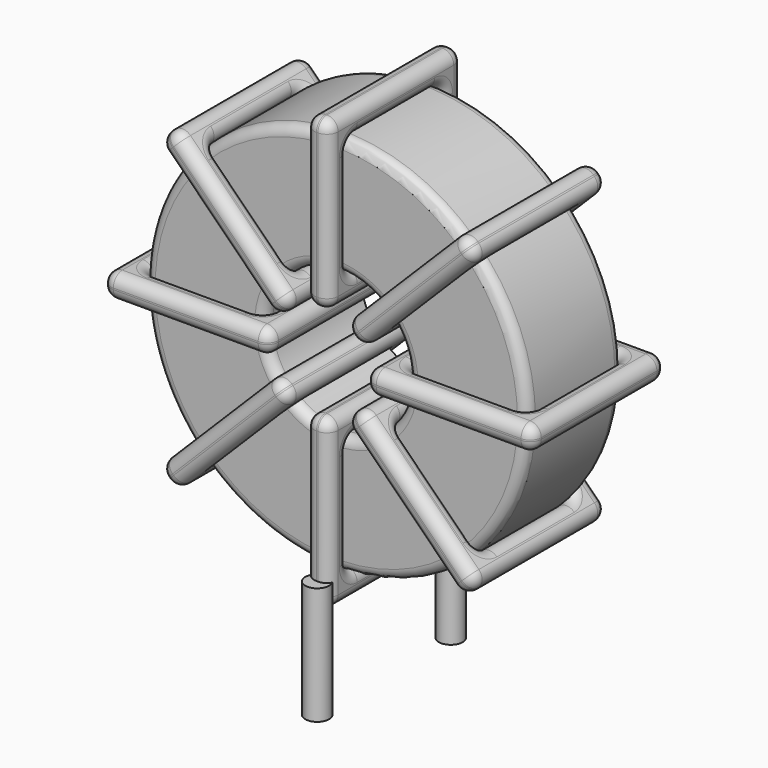
from build123d import *

# Parameters (mm, degrees)
SKETCH001_R       = 0.6
PAD001_DEPTH      = 1.2
PAD001_DEPTH_BACK = 4.7
SKETCH_R          = 9.595
SKETCH_R_2        = 3.598333
PAD_DEPTH         = 2.99
FILLET_R          = 0.5
SKETCH003_W       = 8.396667
SKETCH003_H       = 8.38
SKETCH003_W_2     = 5.996667
SKETCH003_H_2     = 5.98
PAD002_DEPTH      = 0.6
FILLET001_R       = 0.564
SKETCH004_W       = 8.396667
SKETCH004_H       = 8.38
SKETCH004_W_2     = 5.996667
SKETCH004_H_2     = 5.98
PAD003_DEPTH      = 0.6
FILLET002_R       = 0.564
SKETCH005_W       = 8.396667
SKETCH005_H       = 8.38
SKETCH005_W_2     = 5.996667
SKETCH005_H_2     = 5.98
PAD004_DEPTH      = 0.6
FILLET003_R       = 0.564
SKETCH006_W       = 8.396667
SKETCH006_H       = 8.38
SKETCH006_W_2     = 5.996667
SKETCH006_H_2     = 5.98
PAD005_DEPTH      = 0.6
FILLET004_R       = 0.564


with BuildPart() as pad001:
    # Sketch001 → Pad001 (new body, two sides)
    with BuildSketch(Plane.XY.offset(1.7)) as pad001_sk:
        Circle(SKETCH001_R)
        with Locations((0, -8.38)):
            Circle(SKETCH001_R)
    extrude(amount=PAD001_DEPTH)
    extrude(pad001_sk.sketch, amount=-PAD001_DEPTH_BACK)


with BuildPart() as fillet_body:
    # Sketch → Pad (new body, symmetric)
    with BuildSketch(Plane.XZ.offset(4.19)):
        with Locations((0, 12.495)):
            Circle(SKETCH_R)
        with Locations((0, 12.495)):
            Circle(SKETCH_R_2, mode=Mode.SUBTRACT)
    extrude(amount=PAD_DEPTH, both=True)

    # Fillet
    fillet_edges = [fillet_body.edges().sort_by_distance(p)[0] for p in [
        (-3.598333, -7.18, 12.495),
        (-9.595, -7.18, 12.495),
        (-9.595, -1.2, 12.495),
    ]]
    fillet(fillet_edges, radius=FILLET_R)


with BuildPart() as fillet001:
    # Sketch003 → Pad002 (new body, symmetric)
    with BuildSketch(Plane(origin=(0, 0, 12.495), x_dir=(1, 0, 0), z_dir=(0, 0, -1))):
        with Locations((-6.596666, 4.19)):
            Rectangle(SKETCH003_W, SKETCH003_H)
        with Locations((-6.596666, 4.19)):
            Rectangle(SKETCH003_W_2, SKETCH003_H_2, mode=Mode.SUBTRACT)
        with Locations((6.596666, 4.19)):
            Rectangle(SKETCH003_W, SKETCH003_H)
        with Locations((6.596666, 4.19)):
            Rectangle(SKETCH003_W_2, SKETCH003_H_2, mode=Mode.SUBTRACT)
    extrude(amount=PAD002_DEPTH, both=True)

    # Fillet001
    fillet001_edges = [fillet001.edges().sort_by_distance(p)[0] for p in [
        (-3.598333, -7.18, 12.495),
        (-3.598333, -1.2, 12.495),
        (-3.598333, -4.19, 13.095),
        (-3.598333, -4.19, 11.895),
        (-10.795, -8.38, 12.495),
        (-2.398333, -8.38, 12.495),
        (-6.596667, -8.38, 13.095),
        (-6.596667, -8.38, 11.895),
        (-2.398333, 0, 12.495),
        (-2.398333, -4.19, 13.095),
        (-2.398333, -4.19, 11.895),
        (3.598333, -7.18, 12.495),
        (9.595, -7.18, 12.495),
        (6.596667, -7.18, 13.095),
        (6.596667, -7.18, 11.895),
        (9.595, -1.2, 12.495),
        (9.595, -4.19, 13.095),
        (9.595, -4.19, 11.895),
        (2.398333, -8.38, 12.495),
        (10.795, -8.38, 12.495),
        (6.596667, -8.38, 13.095),
        (6.596667, -8.38, 11.895),
        (10.795, 0, 12.495),
        (10.795, -4.19, 13.095),
        (10.795, -4.19, 11.895),
        (-9.595, -7.18, 12.495),
        (-6.596667, -7.18, 13.095),
        (-6.596667, -7.18, 11.895),
        (3.598333, -1.2, 12.495),
        (3.598333, -4.19, 13.095),
        (3.598333, -4.19, 11.895),
        (6.596667, -1.2, 13.095),
        (6.596667, -1.2, 11.895),
        (2.398333, 0, 12.495),
        (6.596667, 0, 13.095),
        (6.596667, 0, 11.895),
        (2.398333, -4.19, 13.095),
        (2.398333, -4.19, 11.895),
        (-10.795, 0, 12.495),
        (-6.596667, 0, 13.095),
        (-6.596667, 0, 11.895),
        (-10.795, -4.19, 13.095),
        (-10.795, -4.19, 11.895),
        (-9.595, -1.2, 12.495),
        (-9.595, -4.19, 13.095),
        (-9.595, -4.19, 11.895),
        (-6.596667, -1.2, 13.095),
        (-6.596667, -1.2, 11.895),
    ]]
    fillet(fillet001_edges, radius=FILLET001_R)


with BuildPart() as fillet002:
    # Sketch004 → Pad003 (new body, symmetric)
    with BuildSketch(Plane(origin=(0, 0, 12.495), x_dir=(0.707108, 0, 0.707106), z_dir=(0.707106, 0, -0.707108))):
        with Locations((-6.596666, 4.19)):
            Rectangle(SKETCH004_W, SKETCH004_H)
        with Locations((-6.596666, 4.19)):
            Rectangle(SKETCH004_W_2, SKETCH004_H_2, mode=Mode.SUBTRACT)
        with Locations((6.596666, 4.19)):
            Rectangle(SKETCH004_W, SKETCH004_H)
        with Locations((6.596666, 4.19)):
            Rectangle(SKETCH004_W_2, SKETCH004_H_2, mode=Mode.SUBTRACT)
    extrude(amount=PAD003_DEPTH, both=True)

    # Fillet002
    fillet002_edges = [fillet002.edges().sort_by_distance(p)[0] for p in [
        (-2.544409, -7.18, 9.950597),
        (-2.544409, -1.2, 9.950597),
        (-2.968672, -4.19, 10.374862),
        (-2.120145, -4.19, 9.526332),
        (-7.633227, -8.38, 4.861791),
        (-1.69588, -8.38, 10.799124),
        (-5.088817, -8.38, 8.254722),
        (-4.24029, -8.38, 7.406193),
        (-1.69588, 0, 10.799124),
        (-2.120143, -4.19, 11.223389),
        (-1.271616, -4.19, 10.37486),
        (2.544409, -7.18, 15.039403),
        (6.784697, -7.18, 19.279682),
        (4.24029, -7.18, 17.583807),
        (5.088817, -7.18, 16.735278),
        (6.784697, -1.2, 19.279682),
        (6.360434, -4.19, 19.703946),
        (7.208961, -4.19, 18.855417),
        (1.69588, -8.38, 14.190876),
        (7.633227, -8.38, 20.128209),
        (4.24029, -8.38, 17.583807),
        (5.088817, -8.38, 16.735278),
        (7.633227, 0, 20.128209),
        (7.208963, -4.19, 20.552473),
        (8.05749, -4.19, 19.703944),
        (-6.784697, -7.18, 5.710318),
        (-5.088817, -7.18, 8.254722),
        (-4.24029, -7.18, 7.406193),
        (2.544409, -1.2, 15.039403),
        (2.120145, -4.19, 15.463668),
        (2.968672, -4.19, 14.615138),
        (4.24029, -1.2, 17.583807),
        (5.088817, -1.2, 16.735278),
        (1.69588, 0, 14.190876),
        (4.24029, 0, 17.583807),
        (5.088817, 0, 16.735278),
        (1.271616, -4.19, 14.61514),
        (2.120143, -4.19, 13.766611),
        (-7.633227, 0, 4.861791),
        (-5.088817, 0, 8.254722),
        (-4.24029, 0, 7.406193),
        (-8.05749, -4.19, 5.286056),
        (-7.208963, -4.19, 4.437527),
        (-6.784697, -1.2, 5.710318),
        (-7.208961, -4.19, 6.134583),
        (-6.360434, -4.19, 5.286054),
        (-5.088817, -1.2, 8.254722),
        (-4.24029, -1.2, 7.406193),
    ]]
    fillet(fillet002_edges, radius=FILLET002_R)


with BuildPart() as fillet003:
    # Sketch005 → Pad004 (new body, symmetric)
    with BuildSketch(Plane(origin=(0, 0, 12.495), x_dir=(0.707108, 0, -0.707106), z_dir=(-0.707106, 0, -0.707108))):
        with Locations((-6.596666, 4.19)):
            Rectangle(SKETCH005_W, SKETCH005_H)
        with Locations((-6.596666, 4.19)):
            Rectangle(SKETCH005_W_2, SKETCH005_H_2, mode=Mode.SUBTRACT)
        with Locations((6.596666, 4.19)):
            Rectangle(SKETCH005_W, SKETCH005_H)
        with Locations((6.596666, 4.19)):
            Rectangle(SKETCH005_W_2, SKETCH005_H_2, mode=Mode.SUBTRACT)
    extrude(amount=PAD004_DEPTH, both=True)

    # Fillet003
    fillet003_edges = [fillet003.edges().sort_by_distance(p)[0] for p in [
        (6.784697, -7.18, 5.710318),
        (6.784697, -1.2, 5.710318),
        (7.208961, -4.19, 6.134583),
        (6.360434, -4.19, 5.286054),
        (7.633227, 0, 4.861791),
        (1.69588, 0, 10.799124),
        (5.088817, 0, 8.254722),
        (4.24029, 0, 7.406193),
        (1.69588, -8.38, 10.799124),
        (2.120143, -4.19, 11.223389),
        (1.271616, -4.19, 10.37486),
        (-6.784697, -7.18, 19.279682),
        (-2.544409, -7.18, 15.039403),
        (-4.24029, -7.18, 17.583807),
        (-5.088817, -7.18, 16.735278),
        (-2.544409, -1.2, 15.039403),
        (-2.120145, -4.19, 15.463668),
        (-2.968672, -4.19, 14.615138),
        (-1.69588, -8.38, 14.190876),
        (-1.69588, 0, 14.190876),
        (-1.271616, -4.19, 14.61514),
        (-2.120143, -4.19, 13.766611),
        (-7.633227, -8.38, 20.128209),
        (-4.24029, -8.38, 17.583807),
        (-5.088817, -8.38, 16.735278),
        (2.544409, -7.18, 9.950597),
        (5.088817, -7.18, 8.254722),
        (4.24029, -7.18, 7.406193),
        (-6.784697, -1.2, 19.279682),
        (-6.360434, -4.19, 19.703946),
        (-7.208961, -4.19, 18.855417),
        (-4.24029, -1.2, 17.583807),
        (-5.088817, -1.2, 16.735278),
        (-7.633227, 0, 20.128209),
        (-7.208963, -4.19, 20.552473),
        (-8.05749, -4.19, 19.703944),
        (-4.24029, 0, 17.583807),
        (-5.088817, 0, 16.735278),
        (7.633227, -8.38, 4.861791),
        (5.088817, -8.38, 8.254722),
        (4.24029, -8.38, 7.406193),
        (8.05749, -4.19, 5.286056),
        (7.208963, -4.19, 4.437527),
        (2.544409, -1.2, 9.950597),
        (2.968672, -4.19, 10.374862),
        (2.120145, -4.19, 9.526332),
        (5.088817, -1.2, 8.254722),
        (4.24029, -1.2, 7.406193),
    ]]
    fillet(fillet003_edges, radius=FILLET003_R)


with BuildPart() as fillet004:
    # Sketch006 → Pad005 (new body, symmetric)
    with BuildSketch(Plane(origin=(0, 0, 12.495), x_dir=(0, 0, 1), z_dir=(1, 0, 0))):
        with Locations((-6.596666, 4.19)):
            Rectangle(SKETCH006_W, SKETCH006_H)
        with Locations((-6.596666, 4.19)):
            Rectangle(SKETCH006_W_2, SKETCH006_H_2, mode=Mode.SUBTRACT)
        with Locations((6.596666, 4.19)):
            Rectangle(SKETCH006_W, SKETCH006_H)
        with Locations((6.596666, 4.19)):
            Rectangle(SKETCH006_W_2, SKETCH006_H_2, mode=Mode.SUBTRACT)
    extrude(amount=PAD005_DEPTH, both=True)

    # Fillet004
    fillet004_edges = [fillet004.edges().sort_by_distance(p)[0] for p in [
        (0, -7.18, 8.896667),
        (0, -1.2, 8.896667),
        (-0.6, -4.19, 8.896667),
        (0.6, -4.19, 8.896667),
        (0, -8.38, 1.7),
        (0, -8.38, 10.096667),
        (-0.6, -8.38, 5.898333),
        (0.6, -8.38, 5.898333),
        (0, 0, 10.096667),
        (-0.6, -4.19, 10.096667),
        (0.6, -4.19, 10.096667),
        (0, -7.18, 16.093333),
        (0, -7.18, 22.09),
        (-0.6, -7.18, 19.091667),
        (0.6, -7.18, 19.091667),
        (0, -1.2, 22.09),
        (-0.6, -4.19, 22.09),
        (0.6, -4.19, 22.09),
        (0, -8.38, 14.893333),
        (0, -8.38, 23.29),
        (-0.6, -8.38, 19.091667),
        (0.6, -8.38, 19.091667),
        (0, 0, 23.29),
        (-0.6, -4.19, 23.29),
        (0.6, -4.19, 23.29),
        (0, -7.18, 2.9),
        (-0.6, -7.18, 5.898333),
        (0.6, -7.18, 5.898333),
        (0, -1.2, 16.093333),
        (-0.6, -4.19, 16.093333),
        (0.6, -4.19, 16.093333),
        (-0.6, -1.2, 19.091667),
        (0.6, -1.2, 19.091667),
        (0, 0, 14.893333),
        (-0.6, 0, 19.091667),
        (0.6, 0, 19.091667),
        (-0.6, -4.19, 14.893333),
        (0.6, -4.19, 14.893333),
        (0, 0, 1.7),
        (-0.6, 0, 5.898333),
        (0.6, 0, 5.898333),
        (-0.6, -4.19, 1.7),
        (0.6, -4.19, 1.7),
        (0, -1.2, 2.9),
        (-0.6, -4.19, 2.9),
        (0.6, -4.19, 2.9),
        (-0.6, -1.2, 5.898333),
        (0.6, -1.2, 5.898333),
    ]]
    fillet(fillet004_edges, radius=FILLET004_R)


solid = Compound([pad001.part, fillet_body.part, fillet001.part, fillet002.part, fillet003.part, fillet004.part])
